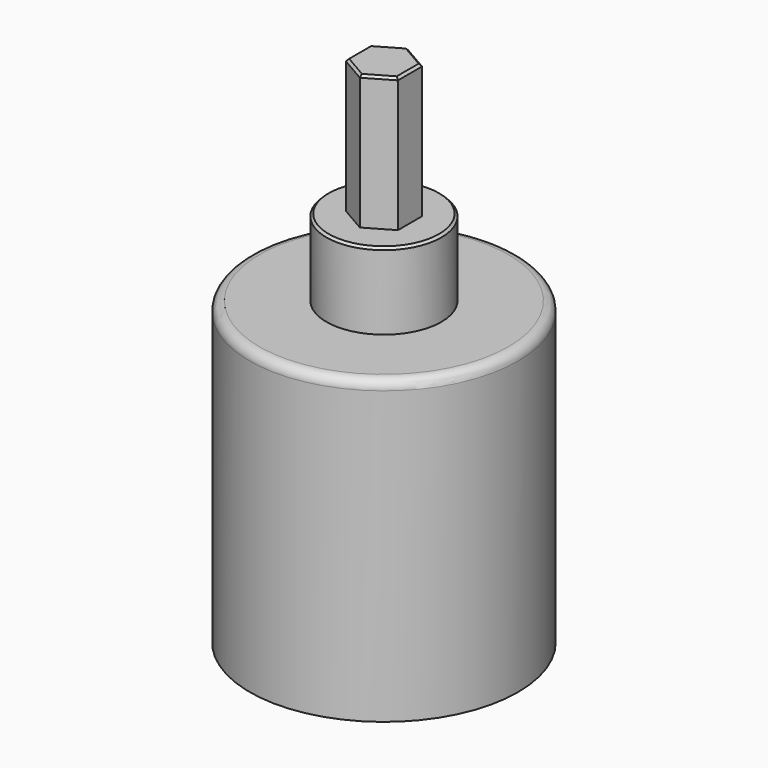
from build123d import *

# Parameters (mm, degrees)
F0_R     = 22.225
F0_R_2   = 9.525
F1_DEPTH = 49.8602
F2_T     = -1.397
F3_R     = 1.5875
F4_DEPTH = 34.925
F5_DEPTH = 12.7
F6_SIZE  = 0.381


with BuildPart() as f1:
    # F0 (on Top) → F1 (new body)
    with BuildSketch(Plane.XY):
        Circle(F0_R)
        Circle(F0_R_2, mode=Mode.SUBTRACT)
        Circle(F0_R_2)
        Polygon((-4.318, 2.4929984624), (0, 4.9859969247), (4.318, 2.4929984624), (4.318, -2.4929984624), (0, -4.9859969247), (-4.318, -2.4929984624), align=None, mode=Mode.SUBTRACT)
        Polygon((4.318, 2.4929984624), (0, 4.9859969247), (-4.318, 2.4929984624), (-4.318, -2.4929984624), (0, -4.9859969247), (4.318, -2.4929984624), align=None)
    extrude(amount=-F1_DEPTH)

    # F2
    f2_openings = [f1.faces().sort_by_distance(p)[0] for p in [
        (0, 0, -49.8602),
    ]]
    offset(amount=F2_T, openings=f2_openings)

    # F3
    f3_edges = [f1.edges().sort_by_distance(p)[0] for p in [
        (-22.225, 0, 0),
    ]]
    fillet(f3_edges, radius=F3_R)

    # F0 (on Top) → F4 (join)
    with BuildSketch(Plane.XY):
        Polygon((4.318, 2.4929984624), (0, 4.9859969247), (-4.318, 2.4929984624), (-4.318, -2.4929984624), (0, -4.9859969247), (4.318, -2.4929984624), align=None)
    extrude(amount=F4_DEPTH)

    # F0 (on Top) → F5 (join)
    with BuildSketch(Plane.XY):
        Circle(F0_R_2)
        Polygon((-4.318, 2.4929984624), (0, 4.9859969247), (4.318, 2.4929984624), (4.318, -2.4929984624), (0, -4.9859969247), (-4.318, -2.4929984624), align=None, mode=Mode.SUBTRACT)
    extrude(amount=F5_DEPTH)

    # F6
    f6_edges = [f1.edges().sort_by_distance(p)[0] for p in [
        (4.318, 0, 34.925),
        (2.159, 3.739498, 34.925),
        (-2.159, 3.739498, 34.925),
        (-4.318, 0, 34.925),
        (-2.159, -3.739498, 34.925),
        (2.159, -3.739498, 34.925),
        (-9.525, 0, 12.7),
    ]]
    chamfer(f6_edges, length=F6_SIZE)


solid = f1.part
